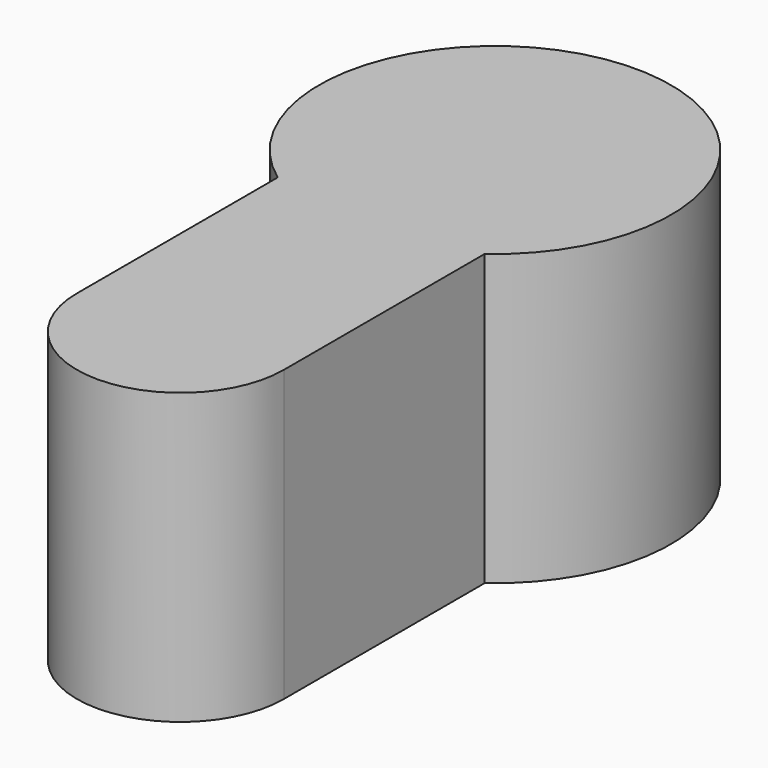
from build123d import *

# Parameters (mm, degrees)
CYLINDER007_R     = 5
CYLINDER007_DEPTH = 14
CYLINDER006_R     = 8.5
CYLINDER006_DEPTH = 14
BOX006_W          = 10
BOX006_H          = 13
BOX006_DEPTH      = 14


with BuildPart() as lock_cut_bottom001:
    # Cylinder007 → Cylinder007 (new body)
    with BuildSketch(Plane(origin=(0, -11, 0), x_dir=(1, 0, 0), z_dir=(0, 0, 1))):
        Circle(CYLINDER007_R)
    extrude(amount=CYLINDER007_DEPTH)


with BuildPart() as lock_cut_top001:
    # Cylinder006 → Cylinder006 (new body)
    with BuildSketch(Plane(origin=(0, 8, 0), x_dir=(1, 0, 0), z_dir=(0, 0, 1))):
        Circle(CYLINDER006_R)
    extrude(amount=CYLINDER006_DEPTH)


with BuildPart() as lock:
    # Box006 → Box006 (new body)
    with BuildSketch(Plane(origin=(-5, -11, 0), x_dir=(1, 0, 0), z_dir=(0, 0, 1))):
        with Locations((5, 6.5)):
            Rectangle(BOX006_W, BOX006_H)
    extrude(amount=BOX006_DEPTH)

    # Fusion004: union lock cut bottom001, lock cut top001
    add(lock_cut_bottom001.part)
    add(lock_cut_top001.part)


with BuildPart() as lock_1:
    # Fusion004 placement: moved
    add(lock.part.moved(Location((0, -8, 0))))


solid = lock_1.part
